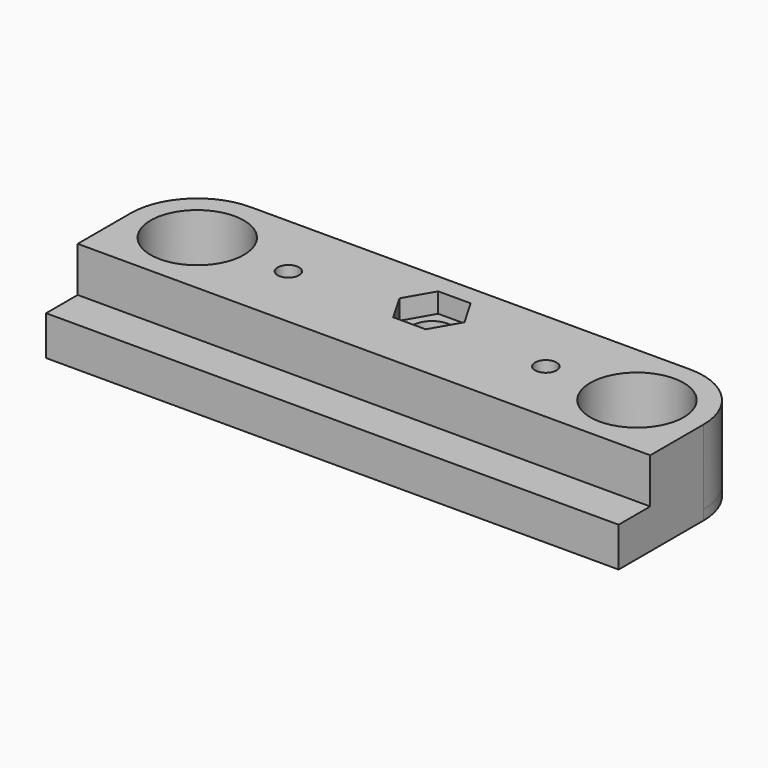
from build123d import *

# Parameters (mm, degrees)
F0_W      = 92.0124906
F0_H      = 27.6999954
F0_R      = 6.7062477
F1_DEPTH  = 1.5875
F2_R      = 10.6749977
F3_R      = 7.5
F4_DEPTH  = 12
F5_DEPTH  = 4.7625
F6_R      = 1.7272
F6_R_2    = 3.175
F7_DEPTH  = 13.5875
F8_R      = 3.96875
F9_DEPTH  = 7.2375014
F11_DEPTH = 3.175


with BuildPart() as f1:
    # F0 (on Top) → F1 (new body)
    with BuildSketch(Plane.XY):
        with Locations((46.0062453, -13.8499977)):
            Rectangle(F0_W, F0_H)
        with Locations((10.6749977, -10.6749977)):
            Circle(F0_R, mode=Mode.SUBTRACT)
        with Locations((81.3374929, -10.6749977)):
            Circle(F0_R, mode=Mode.SUBTRACT)
    extrude(amount=F1_DEPTH)

    # F2
    f2_edges = [f1.edges().sort_by_distance(p)[0] for p in [
        (0, 0, 0.79375),
        (92.012491, 0, 0.79375),
    ]]
    fillet(f2_edges, radius=F2_R)

    # F3 (on face) → F4 (join)
    with BuildSketch(Plane.XY.offset(1.5875)):
        with BuildLine():
            Line((0, -10.6749977), (0, -21.3499954))
            Line((0, -21.3499954), (92.0124906, -21.3499954))
            Line((92.0124906, -21.3499954), (92.0124906, -10.6749977))
            ThreePointArc((92.0124906, -10.6749977), (88.8858561628, -3.1266344372), (81.3374929, 0))
            Line((81.3374929, 0), (10.6749977, 0))
            ThreePointArc((10.6749977, 0), (3.1266344372, -3.1266344372), (0, -10.6749977))
        make_face()
        with Locations((10.6749977, -10.6749977)):
            Circle(F3_R, mode=Mode.SUBTRACT)
        with Locations((81.3374929, -10.6749977)):
            Circle(F3_R, mode=Mode.SUBTRACT)
    extrude(amount=F4_DEPTH)

    # F5 (add): a face of the model
    f5_faces = [f1.faces().sort_by_distance(p)[0] for p in [
        (46.0062453, -24.5249954, 1.5875),
    ]]
    extrude(f5_faces, amount=F5_DEPTH)

    # F6 (on face) → F7 (cut, through all)
    with BuildSketch(Plane.XY.offset(13.5875)):
        with Locations((25.3187477, -10.6749977)):
            Circle(F6_R)
        with Locations((66.6937429, -10.6749977)):
            Circle(F6_R)
        with Locations((46.0062453, -7.6956539)):
            Circle(F6_R_2)
    extrude(amount=-F7_DEPTH, mode=Mode.SUBTRACT)

    # F8 (on face) → F9 (cut)
    with BuildSketch(Plane(origin=(0, 0, 0), x_dir=(1, 0, 0), z_dir=(0, 0, -1))):
        with Locations((66.6937429, 10.6749977)):
            Circle(F8_R)
        with Locations((25.3187477, 10.6749977)):
            Circle(F8_R)
    extrude(amount=-F9_DEPTH, mode=Mode.SUBTRACT)

    # F10 (on face) → F11 (cut)
    with BuildSketch(Plane.XY.offset(13.5875)):
        Polygon((48.6162460461, -3.175), (43.3962445539, -3.175), (40.7862438078, -7.6956539), (43.3962445539, -12.2163078), (48.6162460461, -12.2163078), (51.2262467922, -7.6956539), align=None)
    extrude(amount=-F11_DEPTH, mode=Mode.SUBTRACT)


solid = f1.part
